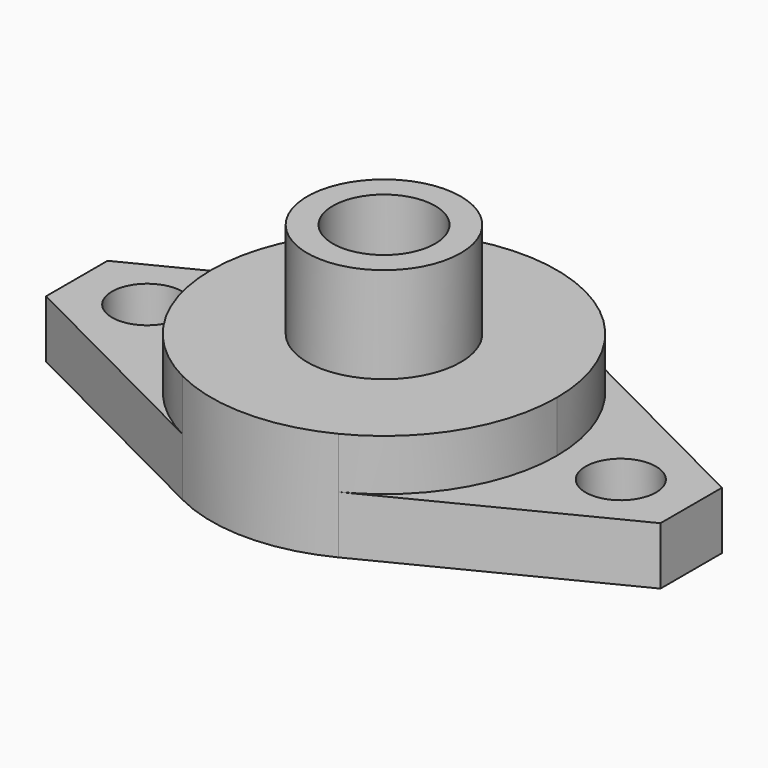
from build123d import *

# Parameters (mm, degrees)
F1_DEPTH = 16
F2_DEPTH = 4.5
F3_R     = 13.5
F3_R_2   = 6
F4_DEPTH = 7.5


with BuildPart() as f1:
    # F0 (on Top) → F1 (new body)
    with BuildSketch(Plane.XY):
        with BuildLine():
            Line((4, 0), (13.5, 0))
            ThreePointArc((13.5, 0), (11.4985218419, 7.0734712448), (6.0875562295, 12.0495501639))
            ThreePointArc((6.0875562295, 12.0495501639), (0, 13.5), (-6.0875562295, 12.0495501639))
            ThreePointArc((-6.0875562295, 12.0495501639), (-11.4985218419, 7.0734712448), (-13.5, 0))
            Line((-13.5, 0), (-4, 0))
            ThreePointArc((-4, 0), (0, 4), (4, 0))
        make_face()
        with BuildLine():
            ThreePointArc((6.0875562295, -12.0495501639), (11.4985218419, -7.0734712448), (13.5, 0))
            Line((13.5, 0), (4, 0))
            ThreePointArc((4, 0), (0, -4), (-4, 0))
            Line((-4, 0), (-13.5, 0))
            ThreePointArc((-13.5, 0), (-11.4985218419, -7.0734712448), (-6.0875562295, -12.0495501639))
            ThreePointArc((-6.0875562295, -12.0495501639), (0, -13.5), (6.0875562295, -12.0495501639))
        make_face()
    extrude(amount=F1_DEPTH)

    # F0 (on Top) → F2 (join)
    with BuildSketch(Plane.XY):
        with BuildLine():
            ThreePointArc((-13.5, 0), (-11.4985218419, 7.0734712448), (-6.0875562295, 12.0495501639))
            Line((-6.0875562295, 12.0495501639), (-24, 3))
            Line((-24, 3), (-24, 0))
            Line((-24, 0), (-21.25, 0))
            ThreePointArc((-21.25, 0), (-18.5, 2.75), (-15.75, 0))
            Line((-15.75, 0), (-13.5, 0))
        make_face()
        with BuildLine():
            Line((-24, -3), (-6.0875562295, -12.0495501639))
            ThreePointArc((-6.0875562295, -12.0495501639), (-11.4985218419, -7.0734712448), (-13.5, 0))
            Line((-13.5, 0), (-15.75, 0))
            ThreePointArc((-15.75, 0), (-18.5, -2.75), (-21.25, 0))
            Line((-21.25, 0), (-24, 0))
            Line((-24, 0), (-24, -3))
        make_face()
        with BuildLine():
            ThreePointArc((6.0875562295, 12.0495501639), (11.4985218419, 7.0734712448), (13.5, 0))
            Line((13.5, 0), (15.75, 0))
            ThreePointArc((15.75, 0), (18.5, 2.75), (21.25, 0))
            Line((21.25, 0), (24, 0))
            Line((24, 0), (24, 3))
            Line((24, 3), (6.0875562295, 12.0495501639))
        make_face()
        with BuildLine():
            Line((15.75, 0), (13.5, 0))
            ThreePointArc((13.5, 0), (11.4985218419, -7.0734712448), (6.0875562295, -12.0495501639))
            Line((6.0875562295, -12.0495501639), (24, -3))
            Line((24, -3), (24, 0))
            Line((24, 0), (21.25, 0))
            ThreePointArc((21.25, 0), (18.5, -2.75), (15.75, 0))
        make_face()
    extrude(amount=F2_DEPTH)

    # F3 (on face) → F4 (cut)
    with BuildSketch(Plane.XY.offset(16)):
        Circle(F3_R)
        Circle(F3_R_2, mode=Mode.SUBTRACT)
    extrude(amount=-F4_DEPTH, mode=Mode.SUBTRACT)


solid = f1.part
